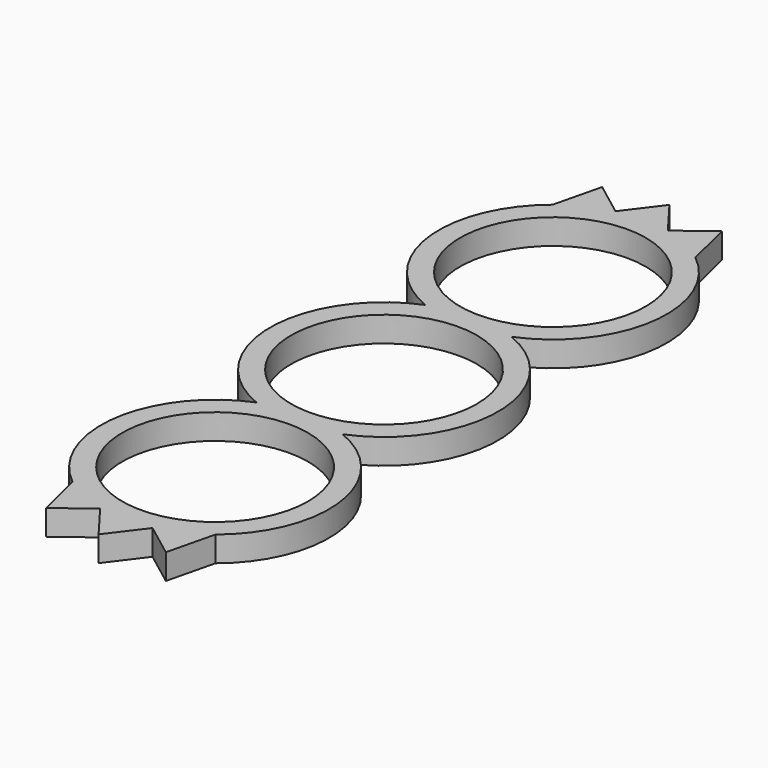
from build123d import *

# Parameters (mm, degrees)
F0_R     = 11
F1_DEPTH = 3


with BuildPart() as f1:
    # F0 (on Top) → F1 (new body)
    with BuildSketch(Plane.XY):
        with BuildLine():
            ThreePointArc((8.457802, -35.522148), (13.35858, -23.05107), (5.09902, -12.5))
            ThreePointArc((5.09902, -12.5), (13.5, 0), (5.09902, 12.5))
            ThreePointArc((5.09902, 12.5), (13.35858, 23.05107), (8.457802, 35.522148))
            Line((8.457802, 35.522148), (7.091197, 41.152409))
            Line((7.091197, 41.152409), (3.101335, 38.138939))
            Line((3.101335, 38.138939), (0, 42.245135))
            Line((0, 42.245135), (-3.101335, 38.138939))
            Line((-3.101335, 38.138939), (-7.091197, 41.152409))
            Line((-7.091197, 41.152409), (-8.457802, 35.522148))
            ThreePointArc((-8.457802, 35.522148), (-13.35858, 23.05107), (-5.09902, 12.5))
            ThreePointArc((-5.09902, 12.5), (-13.5, 0), (-5.09902, -12.5))
            ThreePointArc((-5.09902, -12.5), (-13.35858, -23.05107), (-8.457802, -35.522148))
            Line((-8.457802, -35.522148), (-7.091197, -41.152409))
            Line((-7.091197, -41.152409), (-3.101335, -38.138939))
            Line((-3.101335, -38.138939), (0, -42.245135))
            Line((0, -42.245135), (3.101335, -38.138939))
            Line((3.101335, -38.138939), (7.091197, -41.152409))
            Line((7.091197, -41.152409), (8.457802, -35.522148))
        make_face()
        with Locations((0, -25)):
            Circle(F0_R, mode=Mode.SUBTRACT)
        Circle(F0_R, mode=Mode.SUBTRACT)
        with Locations((0, 25)):
            Circle(F0_R, mode=Mode.SUBTRACT)
    extrude(amount=F1_DEPTH)


solid = f1.part
